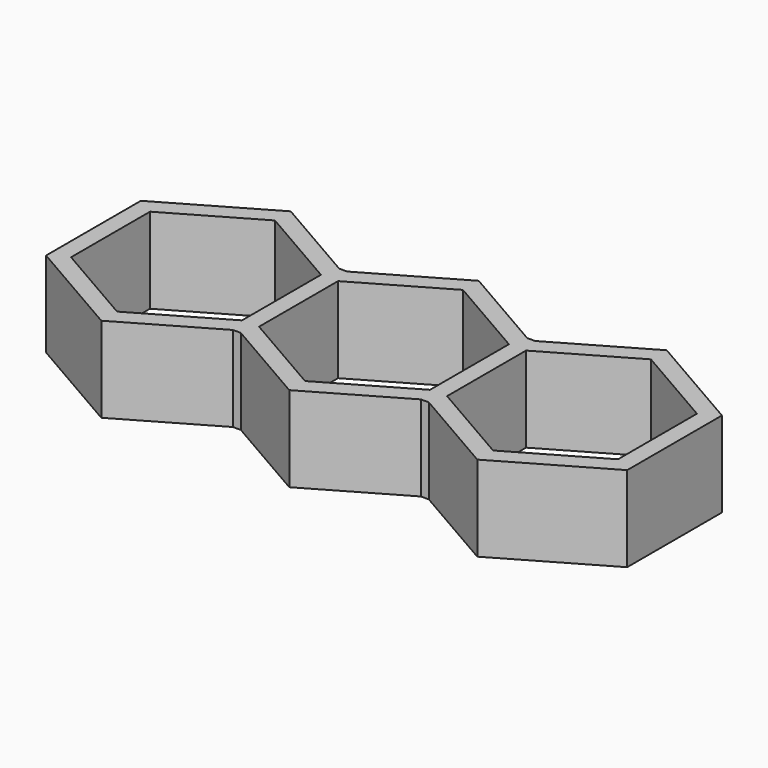
from build123d import *

# Parameters (mm, degrees)
F1_DEPTH = 12.7


with BuildPart() as f1:
    # F0 (on Top) → F1 (new body)
    with BuildSketch(Plane.XY):
        Polygon((-43.18, 8.798818), (-43.18, -8.798818), (-27.94, -17.597636), (-14.559409, -9.872348), (-13.380591, -9.872348), (0, -17.597636), (13.380591, -9.872348), (14.559409, -9.872348), (27.94, -17.597636), (43.18, -8.798818), (43.18, 8.798818), (27.94, 17.597636), (14.559409, 9.872348), (13.380591, 9.872348), (0, 17.597636), (-13.380591, 9.872348), (-14.559409, 9.872348), (-27.94, 17.597636), align=None)
        Polygon((-27.94, 14.664697), (-15.24, 7.332348), (-15.24, -7.332348), (-27.94, -14.664697), (-40.64, -7.332348), (-40.64, 7.332348), align=None, mode=Mode.SUBTRACT)
        Polygon((0, -14.664697), (-12.7, -7.332348), (-12.7, 7.332348), (0, 14.664697), (12.7, 7.332348), (12.7, -7.332348), align=None, mode=Mode.SUBTRACT)
        Polygon((27.94, -14.664697), (15.24, -7.332348), (15.24, 7.332348), (27.94, 14.664697), (40.64, 7.332348), (40.64, -7.332348), align=None, mode=Mode.SUBTRACT)
    extrude(amount=F1_DEPTH)


solid = f1.part
